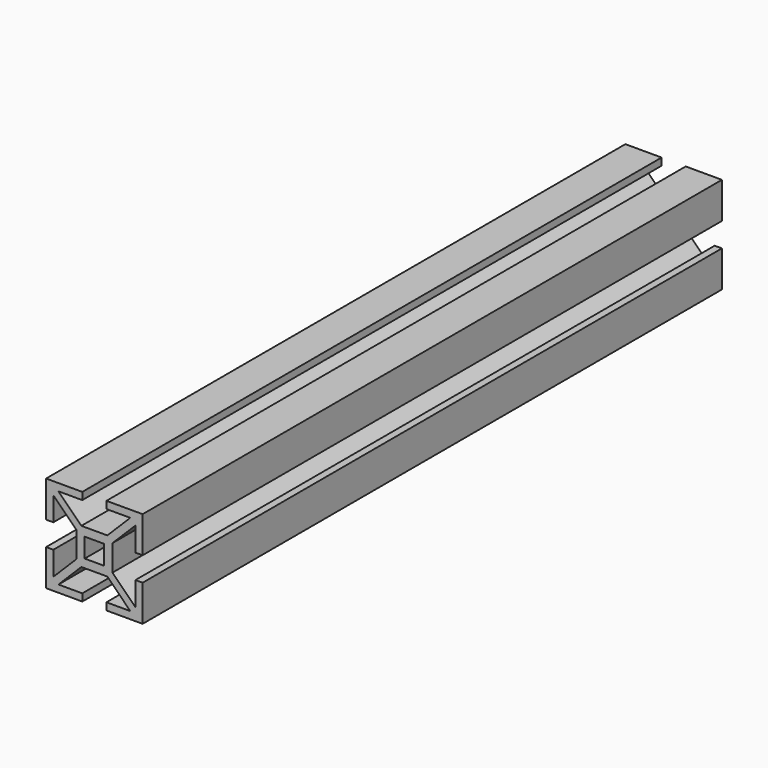
from build123d import *

# Parameters (mm, degrees)
F0_W     = 8
F0_H     = 8
F1_DEPTH = 150


with BuildPart() as f1:
    # F0 (on Front) → F1 (new body, symmetric)
    with BuildSketch(Plane.XZ):
        Polygon((-5, 17), (-5, 20), (-20, 20), (-20, 5), (-17, 5), (-17, 14.87868), (-17, 17), (-14.87868, 17), align=None)
        Polygon((-17, -5), (-20, -5), (-20, -20), (-5, -20), (-5, -17), (-14.87868, -17), (-17, -17), (-17, -14.87868), align=None)
        Polygon((20, -20), (20, -5), (17, -5), (17, -14.87868), (17, -17), (14.87868, -17), (5, -17), (5, -20), align=None)
        Polygon((20, 5), (20, 20), (5, 20), (5, 17), (14.87868, 17), (17, 17), (17, 14.87868), (17, 5), align=None)
        Polygon((17, 17), (14.87868, 17), (5.37868, 7.5), (7.5, 7.5), (7.5, 5.37868), (17, 14.87868), align=None)
        Polygon((-5.37868, 7.5), (-14.87868, 17), (-17, 17), (-17, 14.87868), (-7.5, 5.37868), (-7.5, 7.5), align=None)
        Polygon((-7.5, -5.37868), (-17, -14.87868), (-17, -17), (-14.87868, -17), (-5.37868, -7.5), (-7.5, -7.5), align=None)
        Polygon((17, -17), (17, -14.87868), (7.5, -5.37868), (7.5, -7.5), (5.37868, -7.5), (14.87868, -17), align=None)
        Polygon((7.5, 7.5), (5.37868, 7.5), (-5.37868, 7.5), (-7.5, 7.5), (-7.5, 5.37868), (-7.5, -5.37868), (-7.5, -7.5), (-5.37868, -7.5), (5.37868, -7.5), (7.5, -7.5), (7.5, -5.37868), (7.5, 5.37868), align=None)
        Rectangle(F0_W, F0_H, mode=Mode.SUBTRACT)
    extrude(amount=F1_DEPTH, both=True)


solid = f1.part
